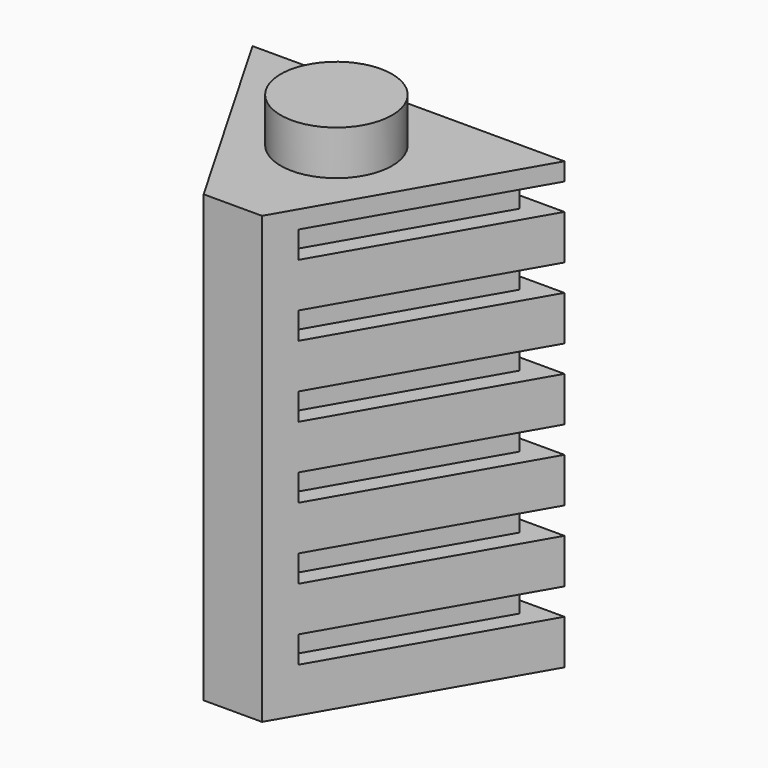
from build123d import *

# Parameters (mm, degrees)
F1_DEPTH  = 127
F2_W      = 89.5684185014
F2_H      = 63.5
F3_DEPTH  = 215.9
F4_R      = 15.875
F5_DEPTH  = 139.7
F6_W      = 88.9
F6_H      = 7.62
F7_DEPTH  = 5.08
F8_W      = 63.5
F8_H      = 7.62
F9_DEPTH  = 5.08
F10_W     = 63.5
F10_H     = 7.62
F11_DEPTH = 5.08


with BuildPart() as f1:
    # F0 (on Top) → F1 (new body)
    with BuildSketch(Plane.XY):
        Polygon((44.45, 25.6632194655), (-44.45, 25.6632194655), (0, -51.326438931), align=None)
    extrude(amount=F1_DEPTH)

    # F2 (on Top) → F3 (intersect)
    with BuildSketch(Plane.XY):
        with Locations((-0.2493504435, -5.1686391234)):
            Rectangle(F2_W, F2_H)
    extrude(amount=F3_DEPTH, mode=Mode.INTERSECT)

    # F4 (on Top) → F5 (join)
    with BuildSketch(Plane.XY):
        Circle(F4_R)
    extrude(amount=F5_DEPTH)

    # F6 (on face) → F7 (cut)
    with BuildSketch(Plane(origin=(0, 25.6632194655, 0), x_dir=(-1, 0, 0), z_dir=(0, 1, 0))):
        with Locations((0, 16.51)):
            Rectangle(F6_W, F6_H)
        with Locations((0, 36.83)):
            Rectangle(F6_W, F6_H)
        with Locations((0, 57.15)):
            Rectangle(F6_W, F6_H)
        with Locations((0, 77.47)):
            Rectangle(F6_W, F6_H)
        with Locations((0, 97.79)):
            Rectangle(F6_W, F6_H)
        with Locations((0, 118.11)):
            Rectangle(F6_W, F6_H)
    extrude(amount=-F7_DEPTH, mode=Mode.SUBTRACT)

    # F8 (on face) → F9 (cut)
    with BuildSketch(Plane(origin=(22.225, -12.8316097327, 0), x_dir=(0.5, 0.8660254038, 0), z_dir=(0.8660254038, -0.5, 0))):
        with Locations((12.7, 16.51)):
            Rectangle(F8_W, F8_H)
        with Locations((12.7, 36.83)):
            Rectangle(F8_W, F8_H)
        with Locations((12.7, 57.15)):
            Rectangle(F8_W, F8_H)
        with Locations((12.7, 77.47)):
            Rectangle(F8_W, F8_H)
        with Locations((12.7, 97.79)):
            Rectangle(F8_W, F8_H)
        with Locations((12.7, 118.11)):
            Rectangle(F8_W, F8_H)
    extrude(amount=-F9_DEPTH, mode=Mode.SUBTRACT)

    # F10 (on face) → F11 (cut)
    with BuildSketch(Plane(origin=(-22.225, -12.8316097327, 0), x_dir=(0.5, -0.8660254038, 0), z_dir=(-0.8660254038, -0.5, 0))):
        with Locations((-12.7, 16.51)):
            Rectangle(F10_W, F10_H)
        with Locations((-12.7, 36.83)):
            Rectangle(F10_W, F10_H)
        with Locations((-12.7, 57.15)):
            Rectangle(F10_W, F10_H)
        with Locations((-12.7, 77.47)):
            Rectangle(F10_W, F10_H)
        with Locations((-12.7, 97.79)):
            Rectangle(F10_W, F10_H)
        with Locations((-12.7, 118.11)):
            Rectangle(F10_W, F10_H)
    extrude(amount=-F11_DEPTH, mode=Mode.SUBTRACT)


solid = f1.part
